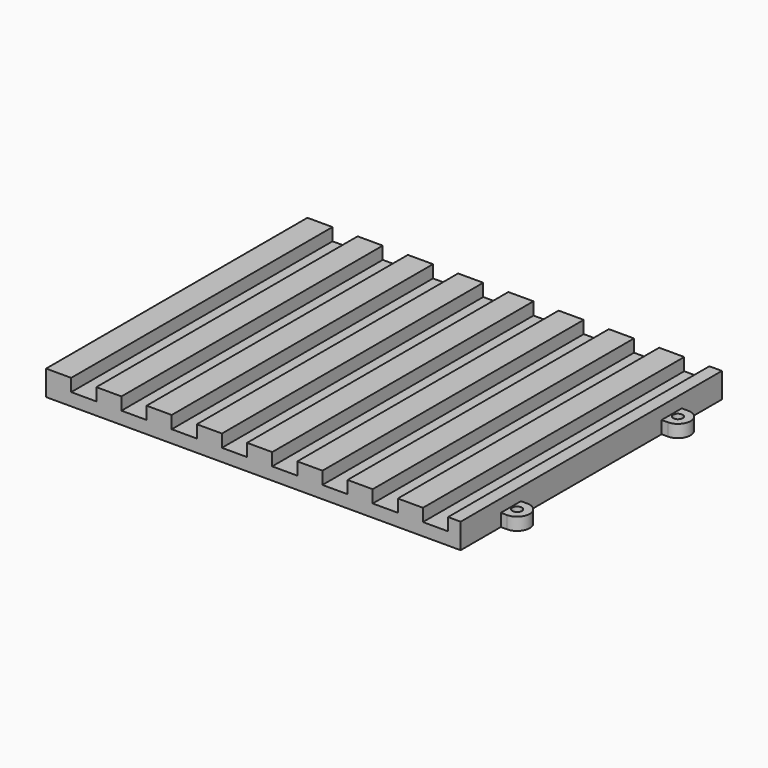
from build123d import *

# Parameters (mm, degrees)
F1_DEPTH = 165.1
F2_R     = 2.3876
F3_DEPTH = 6.35


with BuildPart() as f1:
    # F0 (on Front) → F1 (new body)
    with BuildSketch(Plane.XZ):
        Polygon((-104.775, 12.7), (-104.775, 0), (104.775, 0), (104.775, 12.7), (98.425, 12.7), (98.425, 6.35), (85.725, 6.35), (85.725, 12.7), (73.025, 12.7), (73.025, 6.35), (60.325, 6.35), (60.325, 12.7), (47.625, 12.7), (47.625, 6.35), (34.925, 6.35), (34.925, 12.7), (22.225, 12.7), (22.225, 6.35), (9.525, 6.35), (9.525, 12.7), (-3.175, 12.7), (-3.175, 6.35), (-15.875, 6.35), (-15.875, 12.7), (-28.575, 12.7), (-28.575, 6.35), (-41.275, 6.35), (-41.275, 12.7), (-53.975, 12.7), (-53.975, 6.35), (-66.675, 6.35), (-66.675, 12.7), (-79.375, 12.7), (-79.375, 6.35), (-92.075, 6.35), (-92.075, 12.7), align=None)
    extrude(amount=F1_DEPTH)

    # F2 (on face) → F3 (join)
    with BuildSketch(Plane(origin=(0, 0, 0), x_dir=(1, 0, 0), z_dir=(0, 0, -1))):
        with BuildLine():
            Line((107.95, 139.7), (104.775, 139.7))
            Line((104.775, 139.7), (104.775, 127))
            Line((104.775, 127), (107.95, 127))
            ThreePointArc((107.95, 127), (114.3, 133.35), (107.95, 139.7))
        make_face()
        with Locations((107.95, 133.35)):
            Circle(F2_R, mode=Mode.SUBTRACT)
        with BuildLine():
            ThreePointArc((107.95, 25.4), (114.3, 31.75), (107.95, 38.1))
            Line((107.95, 38.1), (104.775, 38.1))
            Line((104.775, 38.1), (104.775, 25.4))
            Line((104.775, 25.4), (107.95, 25.4))
        make_face()
        with Locations((107.95, 31.75)):
            Circle(F2_R, mode=Mode.SUBTRACT)
    extrude(amount=-F3_DEPTH)


solid = f1.part
